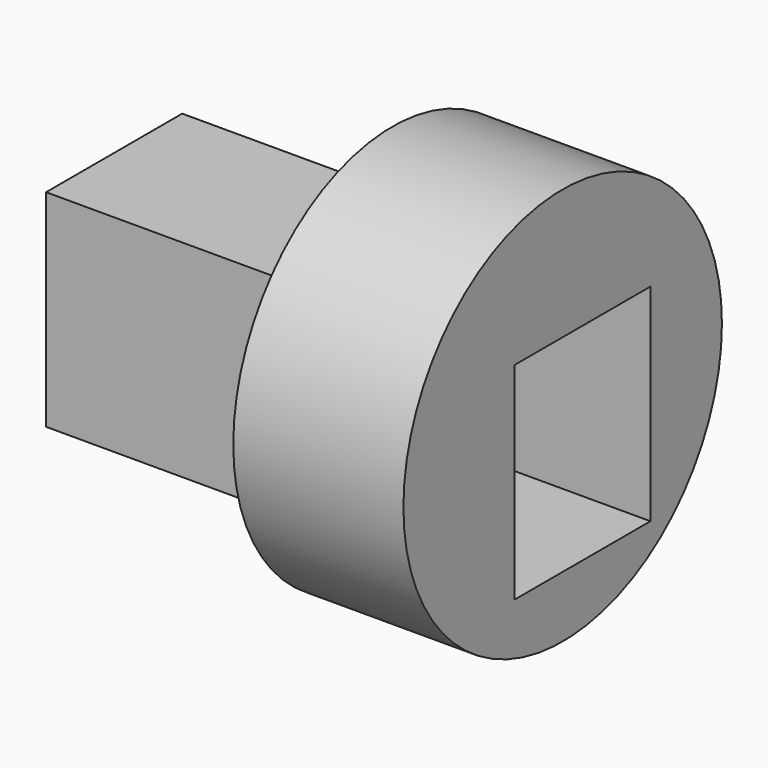
from build123d import *

# Parameters (mm, degrees)
F0_W     = 43.793824
F0_H     = 30.352155
F1_DEPTH = 25
F2_R     = 29.247355
F2_W     = 25
F2_H     = 30.352155
F3_DEPTH = 25


with BuildPart() as f1:
    # F0 (on Front) → F1 (new body)
    with BuildSketch(Plane.XZ):
        with Locations((21.896912, 12.429932)):
            Rectangle(F0_W, F0_H)
    extrude(amount=F1_DEPTH)


with BuildPart() as f3:
    # F2 (on face) → F3 (new body)
    with BuildSketch(Plane.YZ.offset(43.793824)):
        with Locations((-16.11335, 17.488627)):
            Circle(F2_R)
        with Locations((-12.5, 12.429932)):
            Rectangle(F2_W, F2_H, mode=Mode.SUBTRACT)
    extrude(amount=F3_DEPTH)


solid = Compound([f1.part, f3.part])
